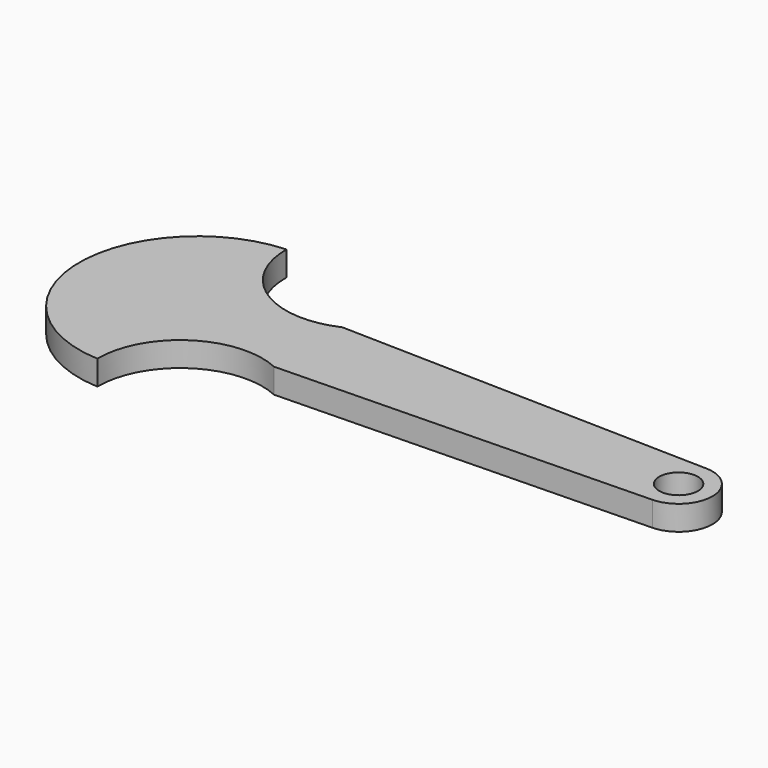
from build123d import *

# Parameters (mm, degrees)
F0_R     = 2
F1_DEPTH = 2.55


with BuildPart() as f1:
    # F0 (on Top) → F1 (new body)
    with BuildSketch(Plane.XY):
        with BuildLine():
            ThreePointArc((11.426351, 4.415994), (3.266568, 5.023899), (-0.599572, 12.235318))
            ThreePointArc((-0.599572, 12.235318), (-12.25, 0), (-0.599572, -12.235318))
            ThreePointArc((-0.599572, -12.235318), (3.266568, -5.023899), (11.426351, -4.415994))
            Line((11.426351, -4.415994), (49.83354, -3.499003))
            ThreePointArc((49.83354, -3.499003), (53.25, 0), (49.83354, 3.499003))
            Line((49.83354, 3.499003), (11.426351, 4.415994))
        make_face()
        with Locations((49.75, 0)):
            Circle(F0_R, mode=Mode.SUBTRACT)
    extrude(amount=F1_DEPTH)


solid = f1.part
